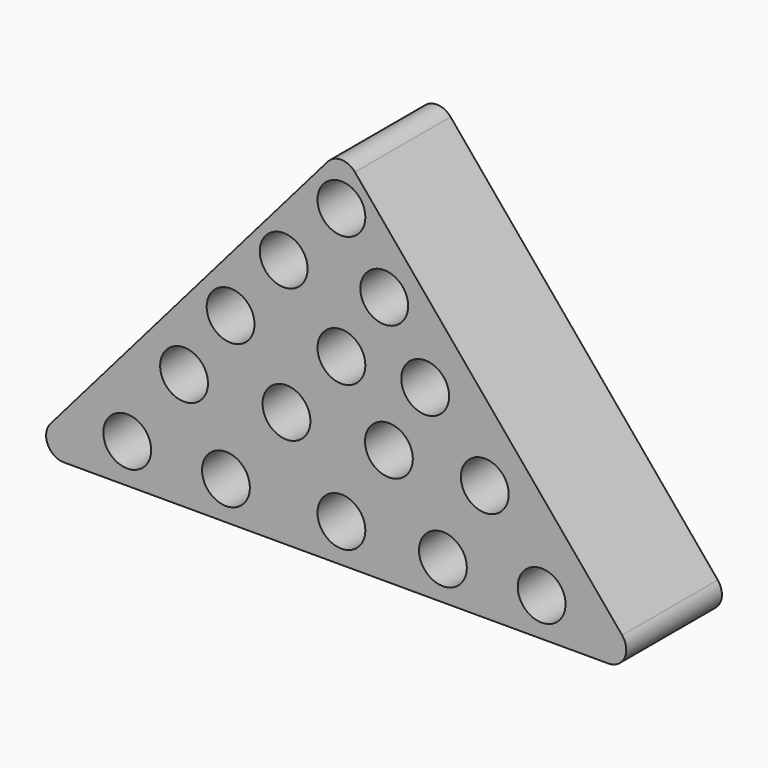
from build123d import *

# Parameters (mm, degrees)
F1_DEPTH = 25.4
F2_R     = 5.08
F3_DEPTH = 20.32


with BuildPart() as f1:
    # F0 (on Front) → F1 (new body)
    with BuildSketch(Plane.XZ):
        with BuildLine():
            ThreePointArc((2.87422, 74.382917), (-0.01883, 75.75441), (-2.936242, 74.435533))
            Line((-2.936242, 74.435533), (-61.807599, 6.300967))
            ThreePointArc((-61.807599, 6.300967), (-62.389271, 2.224832), (-58.924687, 0))
            Line((-58.924687, 0), (56.695826, 0))
            ThreePointArc((56.695826, 0), (60.145915, 2.193525), (59.623376, 6.248351))
            Line((59.623376, 6.248351), (2.87422, 74.382917))
        make_face()
    extrude(amount=F1_DEPTH)

    # F2 (on face) → F3 (cut)
    with BuildSketch(Plane.XZ.offset(25.4)):
        with Locations((-45.493942, 8.30759)):
            Circle(F2_R)
        with Locations((-24.52717, 8.10979)):
            Circle(F2_R)
        with Locations((-33.428159, 24.72497)):
            Circle(F2_R)
        with Locations((-11.670185, 24.72497)):
            Circle(F2_R)
        with Locations((0, 8.10979)):
            Circle(F2_R)
        with Locations((21.560172, 8.10979)):
            Circle(F2_R)
        with Locations((42.526949, 8.10979)):
            Circle(F2_R)
        with Locations((30.461162, 24.72497)):
            Circle(F2_R)
        with Locations((10.087788, 24.72497)):
            Circle(F2_R)
        with Locations((0, 38.966551)):
            Circle(F2_R)
        with Locations((-23.53817, 38.966551)):
            Circle(F2_R)
        with Locations((0, 66.658519)):
            Circle(F2_R)
        with Locations((-12.263585, 53.010333)):
            Circle(F2_R)
        with Locations((9.098791, 53.010333)):
            Circle(F2_R)
        with Locations((17.801978, 38.966551)):
            Circle(F2_R)
    extrude(amount=-F3_DEPTH, mode=Mode.SUBTRACT)


solid = f1.part
